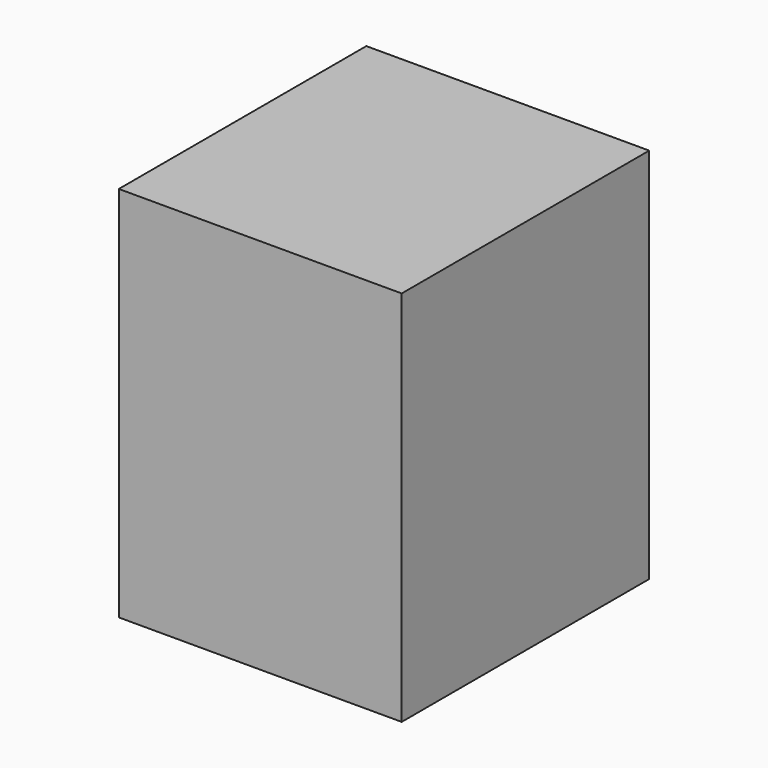
from build123d import *

# Parameters (mm, degrees)
BOX_W     = 914.4
BOX_H     = 1000
BOX_DEPTH = 1219.2


with BuildPart() as part:
    # Box → Box (new body)
    with BuildSketch(Plane.XY):
        with Locations((457.2, 500)):
            Rectangle(BOX_W, BOX_H)
    extrude(amount=BOX_DEPTH)


solid = part.part
